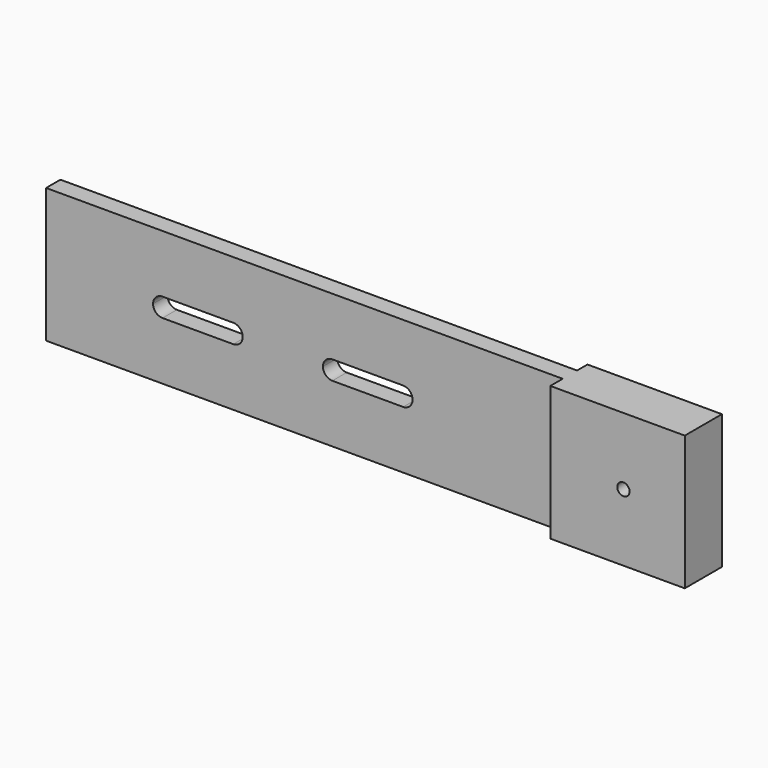
from build123d import *

# Parameters (mm, degrees)
F0_W          = 138
F0_H          = 28.5
F1_DEPTH      = 3.8
F2_W          = 28.5
F2_H          = 28.5
F3_DEPTH      = 3.28
F3_DEPTH_BACK = 6.56
F5_R          = 1.3
F6_DEPTH      = 9.84
F7_DEPTH      = 3.8


with BuildPart() as f1:
    # F0 (on Front) → F1 (new body)
    with BuildSketch(Plane.XZ):
        with Locations((69, 14.25)):
            Rectangle(F0_W, F0_H)
    extrude(amount=F1_DEPTH)

    # F2 (on face) → F3 (join, two sides)
    with BuildSketch(Plane.XZ.offset(3.8)) as f3_sk:
        with Locations((123.75, 14.25)):
            Rectangle(F2_W, F2_H)
    extrude(amount=F3_DEPTH)
    extrude(f3_sk.sketch, amount=-F3_DEPTH_BACK)

    # F5 (on face) → F6 (cut, through all)
    with BuildSketch(Plane.XZ.offset(7.08)):
        with Locations((125, 14.25)):
            Circle(F5_R)
    extrude(amount=-F6_DEPTH, mode=Mode.SUBTRACT)

    # F4 (on face) → F7 (cut, through all)
    with BuildSketch(Plane.XZ.offset(3.8)):
        with BuildLine():
            ThreePointArc((24.68, 16.25), (23.265786, 15.664214), (22.68, 14.25))
            Line((22.68, 14.25), (41.68, 14.25))
            ThreePointArc((41.68, 14.25), (41.094214, 15.664214), (39.68, 16.25))
            Line((39.68, 16.25), (24.68, 16.25))
        make_face()
        with BuildLine():
            ThreePointArc((60.68, 16.25), (59.265786, 15.664214), (58.68, 14.25))
            Line((58.68, 14.25), (77.68, 14.25))
            ThreePointArc((77.68, 14.25), (77.094214, 15.664214), (75.68, 16.25))
            Line((75.68, 16.25), (60.68, 16.25))
        make_face()
        with BuildLine():
            Line((77.68, 14.25), (58.68, 14.25))
            ThreePointArc((58.68, 14.25), (59.265786, 12.835786), (60.68, 12.25))
            Line((60.68, 12.25), (75.68, 12.25))
            ThreePointArc((75.68, 12.25), (77.094214, 12.835786), (77.68, 14.25))
        make_face()
        with BuildLine():
            Line((41.68, 14.25), (22.68, 14.25))
            ThreePointArc((22.68, 14.25), (23.265786, 12.835786), (24.68, 12.25))
            Line((24.68, 12.25), (39.68, 12.25))
            ThreePointArc((39.68, 12.25), (41.094214, 12.835786), (41.68, 14.25))
        make_face()
    extrude(amount=-F7_DEPTH, mode=Mode.SUBTRACT)


solid = f1.part
